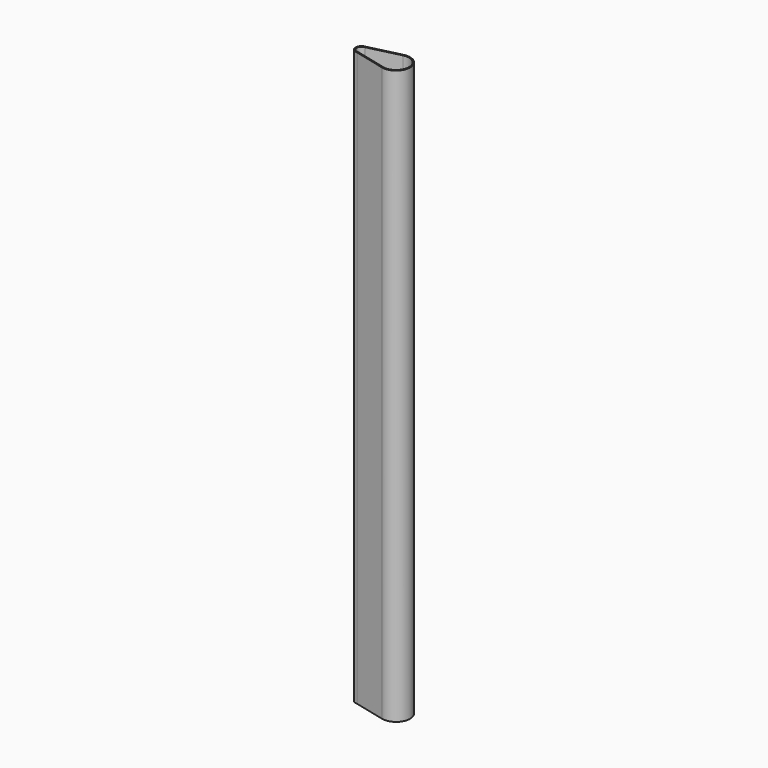
from build123d import *

# Parameters (mm, degrees)
F1_DEPTH = 1270
F2_T     = -2.54


with BuildPart() as f1:
    # F0 (on Top) → F1 (new body)
    with BuildSketch(Plane.XY):
        with BuildLine():
            Line((-76.2946611271, -13.1918803182), (-7.4450064273, -30.1775547845))
            ThreePointArc((-7.4450064273, -30.1775547845), (31.0823079854, -0.0553513609), (-7.3374791949, 30.2038794286))
            Line((-7.3374791949, 30.2038794286), (-77.4847210084, 13.1628920746))
            ThreePointArc((-77.4847210084, 13.1628920746), (-89.7500027986, -0.5952064431), (-76.2946611271, -13.1918803182))
        make_face()
    extrude(amount=F1_DEPTH)

    # F2
    f2_openings = [f1.faces().sort_by_distance(p)[0] for p in [
        (-22.239266, 0.032692, 1270),
    ]]
    offset(amount=F2_T, openings=f2_openings, kind=Kind.INTERSECTION)


solid = f1.part
